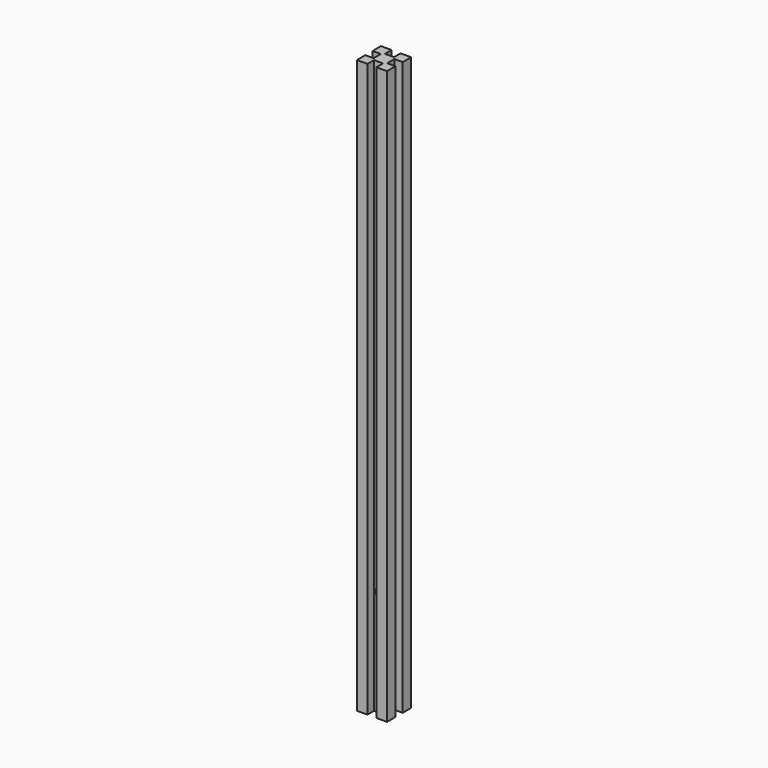
from build123d import *

# Parameters (mm, degrees)
F1_DEPTH = 380
F2_R     = 2.5
F3_DEPTH = 25
F4_R     = 2.5
F5_DEPTH = 25


with BuildPart() as f1:
    # F0 (on Top) → F1 (new body)
    with BuildSketch(Plane.XY):
        Polygon((0, 7), (0, 0), (7, 0), (7, 5.5), (13, 5.5), (13, 0), (20, 0), (20, 7), (14.5, 7), (14.5, 13), (20, 13), (20, 20), (13, 20), (13, 14.5), (7, 14.5), (7, 20), (0, 20), (0, 13), (5.5, 13), (5.5, 7), align=None)
    extrude(amount=F1_DEPTH)

    # F2 (on face) → F3 (cut)
    with BuildSketch(Plane.YZ.offset(14.5)):
        with Locations((10, 70)):
            Circle(F2_R)
    extrude(amount=-F3_DEPTH, mode=Mode.SUBTRACT)

    # F4 (on face) → F5 (cut)
    with BuildSketch(Plane.XZ.offset(-5.5)):
        with Locations((10, 70)):
            Circle(F4_R)
    extrude(amount=-F5_DEPTH, mode=Mode.SUBTRACT)


solid = f1.part
